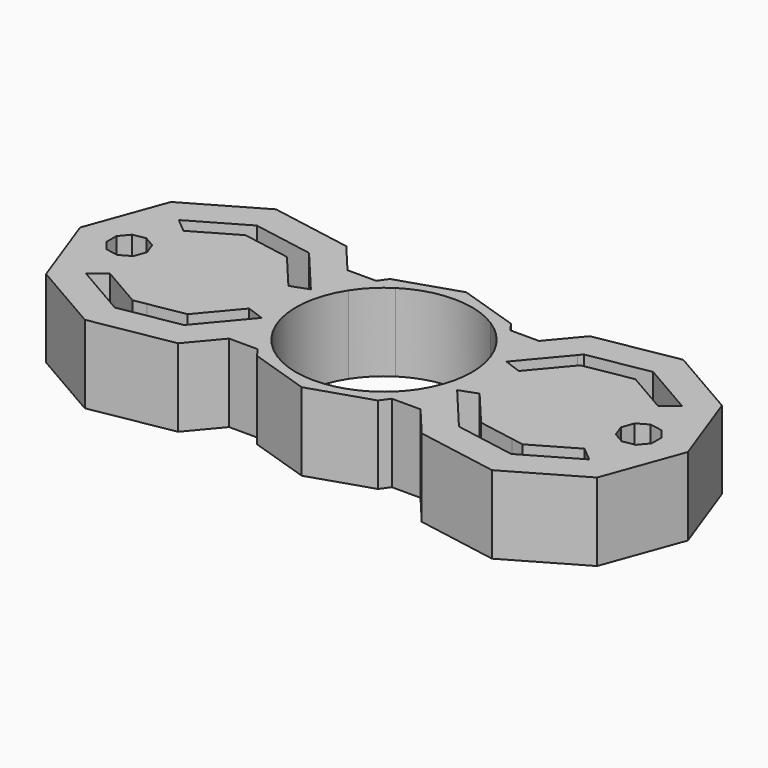
from build123d import *

# Parameters (mm, degrees)
F1_DEPTH = 25.4
F2_DEPTH = 25.4
F3_DEPTH = 25.4


with BuildPart() as f1:
    # F0 (on Top) → F1 (new body)
    with BuildSketch(Plane.XY):
        Polygon((-63.5453270559, -22.991492829), (-59.4913065434, -22.2766596323), (-47.8182197106, -20.2183794755), (-37.5530794263, -7.9848616632), (-31.8749547005, -10.0515300498), (-31.8749547005, 0), (-31.8749547005, 10.0515300498), (-37.5530794263, 7.9848616632), (-47.8182197106, 20.2183794755), (-59.4913065434, 22.2766596323), (-63.5453270559, 22.991492829), (-77.3755131479, 15.0066311658), (-82.0043628348, 18.8906972309), (-64.5946020947, 28.9422272807), (-44.7969526493, 25.4513675289), (-43.689912716, 24.1320487112), (-31.2048222204, 24.1320487112), (-39.7079831372, 34.2657212821), (-66.3619826587, 38.9655405415), (-89.8011164668, 25.4329503278), (-99.0579533557, 0), (-89.8011164668, -25.4329503278), (-66.3619826587, -38.9655405415), (-39.7079831372, -34.2657212821), (-31.2048222204, -24.1320487112), (-43.689912716, -24.1320487112), (-44.7969526493, -25.4513675289), (-64.5946020947, -28.9422272807), (-82.0043628348, -18.8906972309), (-77.3755131479, -15.0066311658), align=None)
        Polygon((-78.6353386424, 3.8605894997), (-77.2301989778, 0), (-78.6353386424, -3.8605894997), (-82.1932771708, -5.9147662668), (-86.2392155834, -5.2013581624), (-88.8800143314, -2.0541767671), (-88.8800143314, 2.0541767671), (-86.2392155834, 5.2013581624), (-82.1932771708, 5.9147662668), align=None, mode=Mode.SUBTRACT)
        with BuildLine():
            Line((-31.8749547005, -10.0515300498), (-43.689912716, -24.1320487112))
            Line((-43.689912716, -24.1320487112), (-31.2048222204, -24.1320487112))
            Line((-31.2048222204, -24.1320487112), (-26.2000668961, -18.1676135733))
            Line((-26.2000668961, -18.1676135733), (-21.8666511129, -24.1320487112))
            Line((-21.8666511129, -24.1320487112), (-19.6998053948, -27.1144559821))
            Line((-19.6998053948, -27.1144559821), (0, -33.5153107669))
            Line((0, -33.5153107669), (19.6998053948, -27.1144559821))
            Line((19.6998053948, -27.1144559821), (21.8666511129, -24.1320487112))
            Line((21.8666511129, -24.1320487112), (26.2000668961, -18.1676135733))
            Line((26.2000668961, -18.1676135733), (31.2048222204, -24.1320487112))
            Line((31.2048222204, -24.1320487112), (39.7079831372, -34.2657212821))
            Line((39.7079831372, -34.2657212821), (66.3619826587, -38.9655405415))
            Line((66.3619826587, -38.9655405415), (89.8011164668, -25.4329503278))
            Line((89.8011164668, -25.4329503278), (99.0579533557, 0))
            Line((99.0579533557, 0), (89.8011164668, 25.4329503278))
            Line((89.8011164668, 25.4329503278), (66.3619826587, 38.9655405415))
            Line((66.3619826587, 38.9655405415), (39.7079831372, 34.2657212821))
            Line((39.7079831372, 34.2657212821), (31.2048222204, 24.1320487112))
            Line((31.2048222204, 24.1320487112), (26.2000668961, 18.1676135733))
            Line((26.2000668961, 18.1676135733), (31.8749547005, 10.3568005987))
            Line((31.8749547005, 10.3568005987), (31.8749547005, 10.0515300498))
            Line((31.8749547005, 10.0515300498), (31.8749547005, 0))
            Line((31.8749547005, 0), (28.6737279915, 0))
            ThreePointArc((28.6737279915, 0), (27.4942890604, -8.1392104036), (24.053000194, -15.6088391176))
            ThreePointArc((24.053000194, -15.6088391176), (20.22377915, -20.3268648302), (15.4863456611, -24.1320487112))
            ThreePointArc((15.4863456611, -24.1320487112), (0, -28.6737279915), (-15.4863456611, -24.1320487112))
            ThreePointArc((-15.4863456611, -24.1320487112), (-25.1618157135, -13.7501166152), (-28.6737279915, 0))
            Line((-28.6737279915, 0), (-31.8749547005, 0))
            Line((-31.8749547005, 0), (-31.8749547005, -10.0515300498))
        make_face()
        Polygon((43.689912716, -24.1320487112), (31.8749547005, -10.0515300498), (37.5530794263, -7.9848616632), (47.8182197106, -20.2183794755), (59.4913065434, -22.2766596323), (63.5453270559, -22.991492829), (77.3755131479, -15.0066311658), (82.0043628348, -18.8906972309), (64.5946020947, -28.9422272807), (44.7969526493, -25.4513675289), align=None, mode=Mode.SUBTRACT)
        Polygon((78.6353386424, -3.8605894997), (77.2301989778, 0), (78.6353386424, 3.8605894997), (82.1932771708, 5.9147662668), (86.2392155834, 5.2013581624), (88.8800143314, 2.0541767671), (88.8800143314, -2.0541767671), (86.2392155834, -5.2013581624), (82.1932771708, -5.9147662668), align=None, mode=Mode.SUBTRACT)
        Polygon((37.5530794263, 7.9848616632), (31.8749547005, 10.0515300498), (43.689912716, 24.1320487112), (44.7969526493, 25.4513675289), (64.5946020947, 28.9422272807), (82.0043628348, 18.8906972309), (77.3755131479, 15.0066311658), (63.5453270559, 22.991492829), (59.4913065434, 22.2766596323), (47.8182197106, 20.2183794755), align=None, mode=Mode.SUBTRACT)
        Polygon((-26.2000668961, -18.1676135733), (-31.2048222204, -24.1320487112), (-21.8666511129, -24.1320487112), align=None)
        with BuildLine():
            Line((-31.8749547005, 10.0515300498), (-31.8749547005, 0))
            Line((-31.8749547005, 0), (-28.6737279915, 0))
            ThreePointArc((-28.6737279915, 0), (-27.4942890604, 8.1392104036), (-24.053000194, 15.6088391176))
            ThreePointArc((-24.053000194, 15.6088391176), (-20.22377915, 20.3268648302), (-15.4863456611, 24.1320487112))
            ThreePointArc((-15.4863456611, 24.1320487112), (0, 28.6737279915), (15.4863456611, 24.1320487112))
            ThreePointArc((15.4863456611, 24.1320487112), (20.22377915, 20.3268648302), (24.053000194, 15.6088391176))
            ThreePointArc((24.053000194, 15.6088391176), (27.4942890604, 8.1392104036), (28.6737279915, 0))
            Line((28.6737279915, 0), (31.8749547005, 0))
            Line((31.8749547005, 0), (31.8749547005, 10.0515300498))
            Line((31.8749547005, 10.0515300498), (31.8749547005, 10.3568005987))
            Line((31.8749547005, 10.3568005987), (26.2000668961, 18.1676135733))
            Line((26.2000668961, 18.1676135733), (21.8666511129, 24.1320487112))
            Line((21.8666511129, 24.1320487112), (19.6998053948, 27.1144559821))
            Line((19.6998053948, 27.1144559821), (0, 33.5153107669))
            Line((0, 33.5153107669), (-19.6998053948, 27.1144559821))
            Line((-19.6998053948, 27.1144559821), (-21.8666511129, 24.1320487112))
            Line((-21.8666511129, 24.1320487112), (-26.2000668961, 18.1676135733))
            Line((-26.2000668961, 18.1676135733), (-31.2048222204, 24.1320487112))
            Line((-31.2048222204, 24.1320487112), (-43.689912716, 24.1320487112))
            Line((-43.689912716, 24.1320487112), (-31.8749547005, 10.0515300498))
        make_face()
        Polygon((-21.8666511129, 24.1320487112), (-31.2048222204, 24.1320487112), (-26.2000668961, 18.1676135733), align=None)
        Polygon((26.2000668961, -18.1676135733), (21.8666511129, -24.1320487112), (31.2048222204, -24.1320487112), align=None)
        Polygon((21.8666511129, 24.1320487112), (26.2000668961, 18.1676135733), (31.2048222204, 24.1320487112), align=None)
    extrude(amount=F1_DEPTH)

    # F0 (on Top) → F2 (join)
    with BuildSketch(Plane.XY):
        Polygon((-63.5453270559, -22.991492829), (-59.4913065434, -22.2766596323), (-47.8182197106, -20.2183794755), (-37.5530794263, -7.9848616632), (-31.8749547005, -10.0515300498), (-31.8749547005, 0), (-31.8749547005, 10.0515300498), (-37.5530794263, 7.9848616632), (-47.8182197106, 20.2183794755), (-59.4913065434, 22.2766596323), (-63.5453270559, 22.991492829), (-77.3755131479, 15.0066311658), (-82.0043628348, 18.8906972309), (-64.5946020947, 28.9422272807), (-44.7969526493, 25.4513675289), (-43.689912716, 24.1320487112), (-31.2048222204, 24.1320487112), (-39.7079831372, 34.2657212821), (-66.3619826587, 38.9655405415), (-89.8011164668, 25.4329503278), (-99.0579533557, 0), (-89.8011164668, -25.4329503278), (-66.3619826587, -38.9655405415), (-39.7079831372, -34.2657212821), (-31.2048222204, -24.1320487112), (-43.689912716, -24.1320487112), (-44.7969526493, -25.4513675289), (-64.5946020947, -28.9422272807), (-82.0043628348, -18.8906972309), (-77.3755131479, -15.0066311658), align=None)
        Polygon((-78.6353386424, 3.8605894997), (-77.2301989778, 0), (-78.6353386424, -3.8605894997), (-82.1932771708, -5.9147662668), (-86.2392155834, -5.2013581624), (-88.8800143314, -2.0541767671), (-88.8800143314, 2.0541767671), (-86.2392155834, 5.2013581624), (-82.1932771708, 5.9147662668), align=None, mode=Mode.SUBTRACT)
        with BuildLine():
            Line((-31.8749547005, -10.0515300498), (-43.689912716, -24.1320487112))
            Line((-43.689912716, -24.1320487112), (-31.2048222204, -24.1320487112))
            Line((-31.2048222204, -24.1320487112), (-26.2000668961, -18.1676135733))
            Line((-26.2000668961, -18.1676135733), (-21.8666511129, -24.1320487112))
            Line((-21.8666511129, -24.1320487112), (-19.6998053948, -27.1144559821))
            Line((-19.6998053948, -27.1144559821), (0, -33.5153107669))
            Line((0, -33.5153107669), (19.6998053948, -27.1144559821))
            Line((19.6998053948, -27.1144559821), (21.8666511129, -24.1320487112))
            Line((21.8666511129, -24.1320487112), (26.2000668961, -18.1676135733))
            Line((26.2000668961, -18.1676135733), (31.2048222204, -24.1320487112))
            Line((31.2048222204, -24.1320487112), (39.7079831372, -34.2657212821))
            Line((39.7079831372, -34.2657212821), (66.3619826587, -38.9655405415))
            Line((66.3619826587, -38.9655405415), (89.8011164668, -25.4329503278))
            Line((89.8011164668, -25.4329503278), (99.0579533557, 0))
            Line((99.0579533557, 0), (89.8011164668, 25.4329503278))
            Line((89.8011164668, 25.4329503278), (66.3619826587, 38.9655405415))
            Line((66.3619826587, 38.9655405415), (39.7079831372, 34.2657212821))
            Line((39.7079831372, 34.2657212821), (31.2048222204, 24.1320487112))
            Line((31.2048222204, 24.1320487112), (26.2000668961, 18.1676135733))
            Line((26.2000668961, 18.1676135733), (31.8749547005, 10.3568005987))
            Line((31.8749547005, 10.3568005987), (31.8749547005, 10.0515300498))
            Line((31.8749547005, 10.0515300498), (31.8749547005, 0))
            Line((31.8749547005, 0), (28.6737279915, 0))
            ThreePointArc((28.6737279915, 0), (27.4942890604, -8.1392104036), (24.053000194, -15.6088391176))
            ThreePointArc((24.053000194, -15.6088391176), (20.22377915, -20.3268648302), (15.4863456611, -24.1320487112))
            ThreePointArc((15.4863456611, -24.1320487112), (0, -28.6737279915), (-15.4863456611, -24.1320487112))
            ThreePointArc((-15.4863456611, -24.1320487112), (-25.1618157135, -13.7501166152), (-28.6737279915, 0))
            Line((-28.6737279915, 0), (-31.8749547005, 0))
            Line((-31.8749547005, 0), (-31.8749547005, -10.0515300498))
        make_face()
        Polygon((43.689912716, -24.1320487112), (31.8749547005, -10.0515300498), (37.5530794263, -7.9848616632), (47.8182197106, -20.2183794755), (59.4913065434, -22.2766596323), (63.5453270559, -22.991492829), (77.3755131479, -15.0066311658), (82.0043628348, -18.8906972309), (64.5946020947, -28.9422272807), (44.7969526493, -25.4513675289), align=None, mode=Mode.SUBTRACT)
        Polygon((78.6353386424, -3.8605894997), (77.2301989778, 0), (78.6353386424, 3.8605894997), (82.1932771708, 5.9147662668), (86.2392155834, 5.2013581624), (88.8800143314, 2.0541767671), (88.8800143314, -2.0541767671), (86.2392155834, -5.2013581624), (82.1932771708, -5.9147662668), align=None, mode=Mode.SUBTRACT)
        Polygon((37.5530794263, 7.9848616632), (31.8749547005, 10.0515300498), (43.689912716, 24.1320487112), (44.7969526493, 25.4513675289), (64.5946020947, 28.9422272807), (82.0043628348, 18.8906972309), (77.3755131479, 15.0066311658), (63.5453270559, 22.991492829), (59.4913065434, 22.2766596323), (47.8182197106, 20.2183794755), align=None, mode=Mode.SUBTRACT)
        Polygon((-26.2000668961, -18.1676135733), (-31.2048222204, -24.1320487112), (-21.8666511129, -24.1320487112), align=None)
        with BuildLine():
            Line((-31.8749547005, 10.0515300498), (-31.8749547005, 0))
            Line((-31.8749547005, 0), (-28.6737279915, 0))
            ThreePointArc((-28.6737279915, 0), (-27.4942890604, 8.1392104036), (-24.053000194, 15.6088391176))
            ThreePointArc((-24.053000194, 15.6088391176), (-20.22377915, 20.3268648302), (-15.4863456611, 24.1320487112))
            ThreePointArc((-15.4863456611, 24.1320487112), (0, 28.6737279915), (15.4863456611, 24.1320487112))
            ThreePointArc((15.4863456611, 24.1320487112), (20.22377915, 20.3268648302), (24.053000194, 15.6088391176))
            ThreePointArc((24.053000194, 15.6088391176), (27.4942890604, 8.1392104036), (28.6737279915, 0))
            Line((28.6737279915, 0), (31.8749547005, 0))
            Line((31.8749547005, 0), (31.8749547005, 10.0515300498))
            Line((31.8749547005, 10.0515300498), (31.8749547005, 10.3568005987))
            Line((31.8749547005, 10.3568005987), (26.2000668961, 18.1676135733))
            Line((26.2000668961, 18.1676135733), (21.8666511129, 24.1320487112))
            Line((21.8666511129, 24.1320487112), (19.6998053948, 27.1144559821))
            Line((19.6998053948, 27.1144559821), (0, 33.5153107669))
            Line((0, 33.5153107669), (-19.6998053948, 27.1144559821))
            Line((-19.6998053948, 27.1144559821), (-21.8666511129, 24.1320487112))
            Line((-21.8666511129, 24.1320487112), (-26.2000668961, 18.1676135733))
            Line((-26.2000668961, 18.1676135733), (-31.2048222204, 24.1320487112))
            Line((-31.2048222204, 24.1320487112), (-43.689912716, 24.1320487112))
            Line((-43.689912716, 24.1320487112), (-31.8749547005, 10.0515300498))
        make_face()
        Polygon((-21.8666511129, 24.1320487112), (-31.2048222204, 24.1320487112), (-26.2000668961, 18.1676135733), align=None)
        Polygon((26.2000668961, -18.1676135733), (21.8666511129, -24.1320487112), (31.2048222204, -24.1320487112), align=None)
        Polygon((21.8666511129, 24.1320487112), (26.2000668961, 18.1676135733), (31.2048222204, 24.1320487112), align=None)
    extrude(amount=F2_DEPTH)

    # F0 (on Top) → F3 (join)
    with BuildSketch(Plane.XY):
        Polygon((-63.5453270559, -22.991492829), (-59.4913065434, -22.2766596323), (-47.8182197106, -20.2183794755), (-37.5530794263, -7.9848616632), (-31.8749547005, -10.0515300498), (-31.8749547005, 0), (-31.8749547005, 10.0515300498), (-37.5530794263, 7.9848616632), (-47.8182197106, 20.2183794755), (-59.4913065434, 22.2766596323), (-63.5453270559, 22.991492829), (-77.3755131479, 15.0066311658), (-82.0043628348, 18.8906972309), (-64.5946020947, 28.9422272807), (-44.7969526493, 25.4513675289), (-43.689912716, 24.1320487112), (-31.2048222204, 24.1320487112), (-39.7079831372, 34.2657212821), (-66.3619826587, 38.9655405415), (-89.8011164668, 25.4329503278), (-99.0579533557, 0), (-89.8011164668, -25.4329503278), (-66.3619826587, -38.9655405415), (-39.7079831372, -34.2657212821), (-31.2048222204, -24.1320487112), (-43.689912716, -24.1320487112), (-44.7969526493, -25.4513675289), (-64.5946020947, -28.9422272807), (-82.0043628348, -18.8906972309), (-77.3755131479, -15.0066311658), align=None)
        Polygon((-78.6353386424, 3.8605894997), (-77.2301989778, 0), (-78.6353386424, -3.8605894997), (-82.1932771708, -5.9147662668), (-86.2392155834, -5.2013581624), (-88.8800143314, -2.0541767671), (-88.8800143314, 2.0541767671), (-86.2392155834, 5.2013581624), (-82.1932771708, 5.9147662668), align=None, mode=Mode.SUBTRACT)
        with BuildLine():
            Line((-31.8749547005, -10.0515300498), (-43.689912716, -24.1320487112))
            Line((-43.689912716, -24.1320487112), (-31.2048222204, -24.1320487112))
            Line((-31.2048222204, -24.1320487112), (-26.2000668961, -18.1676135733))
            Line((-26.2000668961, -18.1676135733), (-21.8666511129, -24.1320487112))
            Line((-21.8666511129, -24.1320487112), (-19.6998053948, -27.1144559821))
            Line((-19.6998053948, -27.1144559821), (0, -33.5153107669))
            Line((0, -33.5153107669), (19.6998053948, -27.1144559821))
            Line((19.6998053948, -27.1144559821), (21.8666511129, -24.1320487112))
            Line((21.8666511129, -24.1320487112), (26.2000668961, -18.1676135733))
            Line((26.2000668961, -18.1676135733), (31.2048222204, -24.1320487112))
            Line((31.2048222204, -24.1320487112), (39.7079831372, -34.2657212821))
            Line((39.7079831372, -34.2657212821), (66.3619826587, -38.9655405415))
            Line((66.3619826587, -38.9655405415), (89.8011164668, -25.4329503278))
            Line((89.8011164668, -25.4329503278), (99.0579533557, 0))
            Line((99.0579533557, 0), (89.8011164668, 25.4329503278))
            Line((89.8011164668, 25.4329503278), (66.3619826587, 38.9655405415))
            Line((66.3619826587, 38.9655405415), (39.7079831372, 34.2657212821))
            Line((39.7079831372, 34.2657212821), (31.2048222204, 24.1320487112))
            Line((31.2048222204, 24.1320487112), (26.2000668961, 18.1676135733))
            Line((26.2000668961, 18.1676135733), (31.8749547005, 10.3568005987))
            Line((31.8749547005, 10.3568005987), (31.8749547005, 10.0515300498))
            Line((31.8749547005, 10.0515300498), (31.8749547005, 0))
            Line((31.8749547005, 0), (28.6737279915, 0))
            ThreePointArc((28.6737279915, 0), (27.4942890604, -8.1392104036), (24.053000194, -15.6088391176))
            ThreePointArc((24.053000194, -15.6088391176), (20.22377915, -20.3268648302), (15.4863456611, -24.1320487112))
            ThreePointArc((15.4863456611, -24.1320487112), (0, -28.6737279915), (-15.4863456611, -24.1320487112))
            ThreePointArc((-15.4863456611, -24.1320487112), (-25.1618157135, -13.7501166152), (-28.6737279915, 0))
            Line((-28.6737279915, 0), (-31.8749547005, 0))
            Line((-31.8749547005, 0), (-31.8749547005, -10.0515300498))
        make_face()
        Polygon((43.689912716, -24.1320487112), (31.8749547005, -10.0515300498), (37.5530794263, -7.9848616632), (47.8182197106, -20.2183794755), (59.4913065434, -22.2766596323), (63.5453270559, -22.991492829), (77.3755131479, -15.0066311658), (82.0043628348, -18.8906972309), (64.5946020947, -28.9422272807), (44.7969526493, -25.4513675289), align=None, mode=Mode.SUBTRACT)
        Polygon((78.6353386424, -3.8605894997), (77.2301989778, 0), (78.6353386424, 3.8605894997), (82.1932771708, 5.9147662668), (86.2392155834, 5.2013581624), (88.8800143314, 2.0541767671), (88.8800143314, -2.0541767671), (86.2392155834, -5.2013581624), (82.1932771708, -5.9147662668), align=None, mode=Mode.SUBTRACT)
        Polygon((37.5530794263, 7.9848616632), (31.8749547005, 10.0515300498), (43.689912716, 24.1320487112), (44.7969526493, 25.4513675289), (64.5946020947, 28.9422272807), (82.0043628348, 18.8906972309), (77.3755131479, 15.0066311658), (63.5453270559, 22.991492829), (59.4913065434, 22.2766596323), (47.8182197106, 20.2183794755), align=None, mode=Mode.SUBTRACT)
        Polygon((-26.2000668961, -18.1676135733), (-31.2048222204, -24.1320487112), (-21.8666511129, -24.1320487112), align=None)
        with BuildLine():
            Line((-31.8749547005, 10.0515300498), (-31.8749547005, 0))
            Line((-31.8749547005, 0), (-28.6737279915, 0))
            ThreePointArc((-28.6737279915, 0), (-27.4942890604, 8.1392104036), (-24.053000194, 15.6088391176))
            ThreePointArc((-24.053000194, 15.6088391176), (-20.22377915, 20.3268648302), (-15.4863456611, 24.1320487112))
            ThreePointArc((-15.4863456611, 24.1320487112), (0, 28.6737279915), (15.4863456611, 24.1320487112))
            ThreePointArc((15.4863456611, 24.1320487112), (20.22377915, 20.3268648302), (24.053000194, 15.6088391176))
            ThreePointArc((24.053000194, 15.6088391176), (27.4942890604, 8.1392104036), (28.6737279915, 0))
            Line((28.6737279915, 0), (31.8749547005, 0))
            Line((31.8749547005, 0), (31.8749547005, 10.0515300498))
            Line((31.8749547005, 10.0515300498), (31.8749547005, 10.3568005987))
            Line((31.8749547005, 10.3568005987), (26.2000668961, 18.1676135733))
            Line((26.2000668961, 18.1676135733), (21.8666511129, 24.1320487112))
            Line((21.8666511129, 24.1320487112), (19.6998053948, 27.1144559821))
            Line((19.6998053948, 27.1144559821), (0, 33.5153107669))
            Line((0, 33.5153107669), (-19.6998053948, 27.1144559821))
            Line((-19.6998053948, 27.1144559821), (-21.8666511129, 24.1320487112))
            Line((-21.8666511129, 24.1320487112), (-26.2000668961, 18.1676135733))
            Line((-26.2000668961, 18.1676135733), (-31.2048222204, 24.1320487112))
            Line((-31.2048222204, 24.1320487112), (-43.689912716, 24.1320487112))
            Line((-43.689912716, 24.1320487112), (-31.8749547005, 10.0515300498))
        make_face()
        Polygon((-21.8666511129, 24.1320487112), (-31.2048222204, 24.1320487112), (-26.2000668961, 18.1676135733), align=None)
        Polygon((26.2000668961, -18.1676135733), (21.8666511129, -24.1320487112), (31.2048222204, -24.1320487112), align=None)
        Polygon((21.8666511129, 24.1320487112), (26.2000668961, 18.1676135733), (31.2048222204, 24.1320487112), align=None)
    extrude(amount=F3_DEPTH)


solid = f1.part
